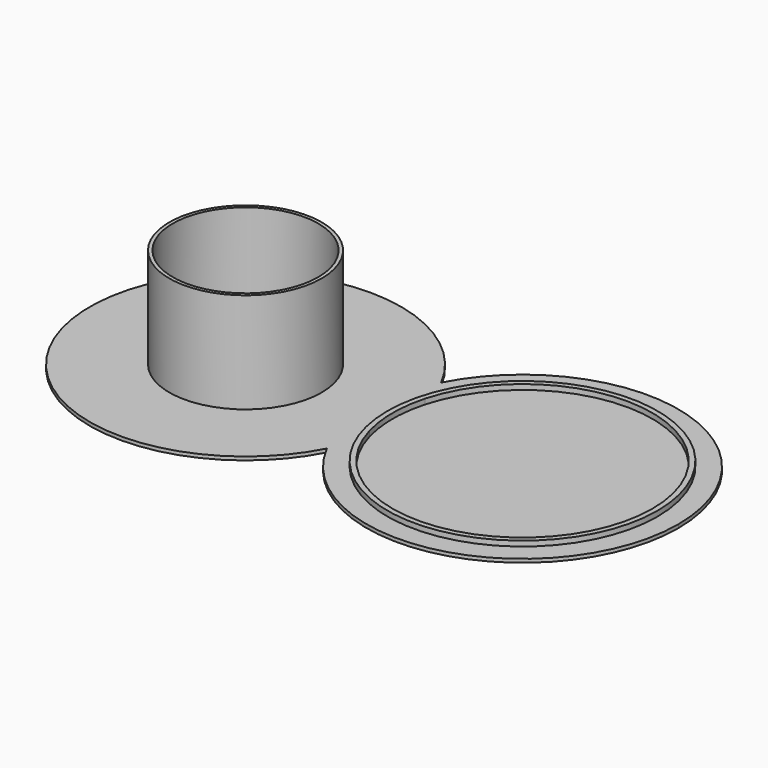
from build123d import *

# Parameters (mm, degrees)
F0_R     = 22
F1_DEPTH = 1
F0_R_2   = 21
F2_DEPTH = 1
F3_DEPTH = 30
F4_DEPTH = 1
F5_DEPTH = 2.5


with BuildPart() as f1:
    # F0 (on Top) → F1 (new body)
    with BuildSketch(Plane.XY):
        with BuildLine():
            ThreePointArc((-28.94545121, 20.6155281281), (-27.1858056608, 16.7669914896), (-25.79545121, 12.7701801084))
            ThreePointArc((-25.79545121, 12.7701801084), (17.5295005273, 38.4587441293), (50.05454879, 0))
            ThreePointArc((50.05454879, 0), (17.5295005273, -38.4587441293), (-25.79545121, -12.7701801084))
            ThreePointArc((-25.79545121, -12.7701801084), (-27.1858056608, -16.7669914896), (-28.94545121, -20.6155281281))
            ThreePointArc((-28.94545121, -20.6155281281), (21.6611505078, -43.7321392113), (56.05454879, 0))
            ThreePointArc((56.05454879, 0), (21.6611505078, 43.7321392113), (-28.94545121, 20.6155281281))
        make_face()
        with BuildLine():
            ThreePointArc((-25.07826371, 10.0334371399), (-24.2295511435, 5.0485920067), (-23.94545121, 0))
            ThreePointArc((-23.94545121, 0), (-24.2295511435, -5.0485920067), (-25.07826371, -10.0334371399))
            ThreePointArc((-25.07826371, -10.0334371399), (16.1176274607, -37.1566310956), (48.55454879, 0))
            ThreePointArc((48.55454879, 0), (16.1176274607, 37.1566310956), (-25.07826371, 10.0334371399))
        make_face()
        with BuildLine():
            ThreePointArc((-28.94545121, -20.6155281281), (-33.94545121, 0), (-28.94545121, 20.6155281281))
            ThreePointArc((-28.94545121, 20.6155281281), (-113.94545121, 0), (-28.94545121, -20.6155281281))
        make_face()
        with Locations((-68.94545121, 0)):
            Circle(F0_R, mode=Mode.SUBTRACT)
        with BuildLine():
            ThreePointArc((-25.79545121, -12.7701801084), (-27.94545121, 0), (-25.79545121, 12.7701801084))
            ThreePointArc((-25.79545121, 12.7701801084), (-27.1858056608, 16.7669914896), (-28.94545121, 20.6155281281))
            ThreePointArc((-28.94545121, 20.6155281281), (-33.94545121, 0), (-28.94545121, -20.6155281281))
            ThreePointArc((-28.94545121, -20.6155281281), (-27.1858056608, -16.7669914896), (-25.79545121, -12.7701801084))
        make_face()
        with BuildLine():
            ThreePointArc((-25.79545121, 12.7701801084), (-25.4153447247, 11.4074462251), (-25.07826371, 10.0334371399))
            ThreePointArc((-25.07826371, 10.0334371399), (16.1176274607, 37.1566310956), (48.55454879, 0))
            ThreePointArc((48.55454879, 0), (16.1176274607, -37.1566310956), (-25.07826371, -10.0334371399))
            ThreePointArc((-25.07826371, -10.0334371399), (-25.4153447247, -11.4074462251), (-25.79545121, -12.7701801084))
            ThreePointArc((-25.79545121, -12.7701801084), (17.5295005273, -38.4587441293), (50.05454879, 0))
            ThreePointArc((50.05454879, 0), (17.5295005273, 38.4587441293), (-25.79545121, 12.7701801084))
        make_face()
    extrude(amount=F1_DEPTH)

    # F0 (on Top) → F4 (join)
    with BuildSketch(Plane.XY):
        with BuildLine():
            ThreePointArc((-25.07826371, -10.0334371399), (-24.2295511435, -5.0485920067), (-23.94545121, 0))
            ThreePointArc((-23.94545121, 0), (-24.2295511435, 5.0485920067), (-25.07826371, 10.0334371399))
            ThreePointArc((-25.07826371, 10.0334371399), (-26.44545121, 0), (-25.07826371, -10.0334371399))
        make_face()
    extrude(amount=F4_DEPTH)

    # F0 (on Top) → F5 (join)
    with BuildSketch(Plane.XY):
        with BuildLine():
            ThreePointArc((-25.79545121, 12.7701801084), (-25.4153447247, 11.4074462251), (-25.07826371, 10.0334371399))
            ThreePointArc((-25.07826371, 10.0334371399), (16.1176274607, 37.1566310956), (48.55454879, 0))
            ThreePointArc((48.55454879, 0), (16.1176274607, -37.1566310956), (-25.07826371, -10.0334371399))
            ThreePointArc((-25.07826371, -10.0334371399), (-25.4153447247, -11.4074462251), (-25.79545121, -12.7701801084))
            ThreePointArc((-25.79545121, -12.7701801084), (17.5295005273, -38.4587441293), (50.05454879, 0))
            ThreePointArc((50.05454879, 0), (17.5295005273, 38.4587441293), (-25.79545121, 12.7701801084))
        make_face()
        with BuildLine():
            ThreePointArc((-25.07826371, -10.0334371399), (-26.44545121, 0), (-25.07826371, 10.0334371399))
            ThreePointArc((-25.07826371, 10.0334371399), (-25.4153447247, 11.4074462251), (-25.79545121, 12.7701801084))
            ThreePointArc((-25.79545121, 12.7701801084), (-27.94545121, 0), (-25.79545121, -12.7701801084))
            ThreePointArc((-25.79545121, -12.7701801084), (-25.4153447247, -11.4074462251), (-25.07826371, -10.0334371399))
        make_face()
    extrude(amount=F5_DEPTH)


with BuildPart() as f1b:
    # F0 (on Top) → F1, piece 2 (new body)
    with BuildSketch(Plane.XY):
        with Locations((-68.94545121, 0)):
            Circle(F0_R_2)
    extrude(amount=F1_DEPTH)

    # F2 (add): a face of the model
    f2_faces = [f1b.faces().sort_by_distance(p)[0] for p in [
        (-68.94545121, 0, 1),
    ]]
    extrude(f2_faces, amount=F2_DEPTH)


with BuildPart() as f3:
    # F0 (on Top) → F3 (new body)
    with BuildSketch(Plane.XY):
        with Locations((-68.94545121, 0)):
            Circle(F0_R)
        with Locations((-68.94545121, 0)):
            Circle(F0_R_2, mode=Mode.SUBTRACT)
    extrude(amount=F3_DEPTH)


solid = Compound([f1.part, f1b.part, f3.part])
